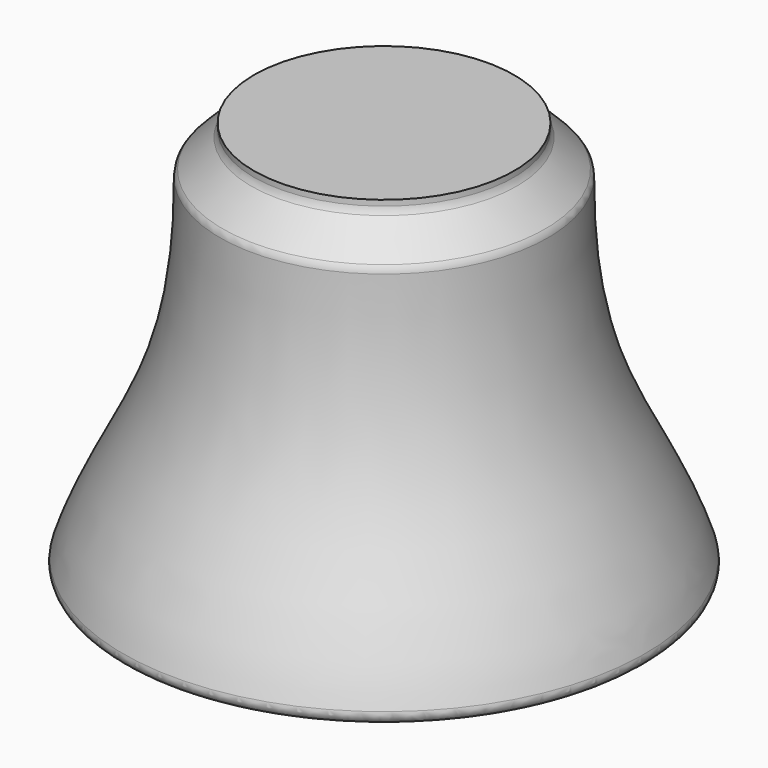
from build123d import *

# Parameters (mm, degrees)
FILLET001_R = 1
FILLET002_R = 1
FILLET003_R = 1


with BuildPart() as part:
    # Sketch → Revolution (revolve)
    with BuildSketch(Plane.XZ):
        with BuildLine():
            Line((0, 41), (0, 0))
            Line((0, 0), (-27.5, 0))
            add(Edge.make_bspline(
                [(-17.035534, 36.464466), (-16.894249, 15.411525), (-23.994074, 12.167703), (-27.5, 0)],
                knots=[0, 0, 0, 0, 37.936315, 37.936315, 37.936315, 37.936315], degree=3))
            Line((-17.035534, 36.464466), (-13.5, 40))
            Line((-13.5, 40), (-13.5, 41))
            Line((-13.5, 41), (0, 41))
        make_face()
    revolve(axis=Axis((0, 0, 0), (0, 0, 1)))

    # Fillet001
    fillet001_edges = [part.edges().sort_by_distance(p)[0] for p in [
        (27.5, 0, 0),
    ]]
    fillet(fillet001_edges, radius=FILLET001_R)

    # Fillet002
    fillet002_edges = [part.edges().sort_by_distance(p)[0] for p in [
        (13.5, 0, 40),
    ]]
    fillet(fillet002_edges, radius=FILLET002_R)

    # Fillet003
    fillet003_edges = [part.edges().sort_by_distance(p)[0] for p in [
        (17.035534, 0, 36.464466),
    ]]
    fillet(fillet003_edges, radius=FILLET003_R)


solid = part.part
